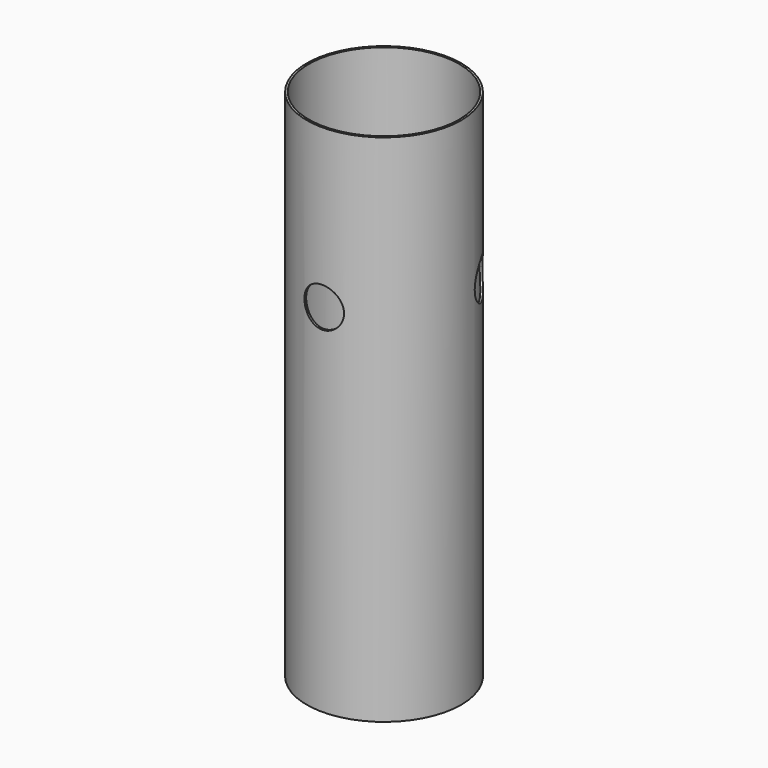
from build123d import *

# Parameters (mm, degrees)
F0_W      = 0.3302
F0_H      = 82.55
F3_DEPTH  = 12.3962
F7_DEPTH  = 1.7554578348
F10_DEPTH = 1.7554578348


with BuildPart() as f1:
    # F0 (on Front) → F1 (revolve)
    with BuildSketch(Plane.XZ):
        with Locations((12.2301, 41.275)):
            Rectangle(F0_W, F0_H)
    revolve(axis=Axis((0, 0, 41.275), (0, 0, 1)))

    # F2 (on Front) → F3 (cut, through all)
    with BuildSketch(Plane.XZ):
        with BuildLine():
            ThreePointArc((0, 60.325), (-3.175, 57.15), (0, 53.975))
            Line((0, 53.975), (0, 60.325))
        make_face()
        with BuildLine():
            Line((0, 60.325), (0, 53.975))
            ThreePointArc((0, 53.975), (2.2450640303, 54.9049359697), (3.175, 57.15))
            ThreePointArc((3.175, 57.15), (2.2450640303, 59.3950640303), (0, 60.325))
        make_face()
    extrude(amount=F3_DEPTH, mode=Mode.SUBTRACT)

    # F6 (on line) → F7 (cut, up to face)
    with BuildSketch(Plane(origin=(10.734558085, 6.1976, 0), x_dir=(-0.5, 0.8660254038, 0), z_dir=(0.8660254038, 0.5, 0))):
        with BuildLine():
            ThreePointArc((0, 60.325), (-3.175, 57.15), (0, 53.975))
            Line((0, 53.975), (0, 60.325))
        make_face()
        with BuildLine():
            Line((0, 60.325), (0, 53.975))
            ThreePointArc((0, 53.975), (2.2450640303, 54.9049359697), (3.175, 57.15))
            ThreePointArc((3.175, 57.15), (2.2450640303, 59.3950640303), (0, 60.325))
        make_face()
    extrude(amount=-F7_DEPTH, mode=Mode.SUBTRACT)

    # F9 (on line) → F10 (cut, up to face)
    with BuildSketch(Plane(origin=(-10.734558085, 6.1976, 0), x_dir=(-0.5, -0.8660254038, 0), z_dir=(-0.8660254038, 0.5, 0))):
        with BuildLine():
            ThreePointArc((0, 60.325), (-3.175, 57.15), (0, 53.975))
            Line((0, 53.975), (0, 60.325))
        make_face()
        with BuildLine():
            Line((0, 60.325), (0, 53.975))
            ThreePointArc((0, 53.975), (2.2450640303, 54.9049359697), (3.175, 57.15))
            ThreePointArc((3.175, 57.15), (2.2450640303, 59.3950640303), (0, 60.325))
        make_face()
    extrude(amount=-F10_DEPTH, mode=Mode.SUBTRACT)


solid = f1.part
